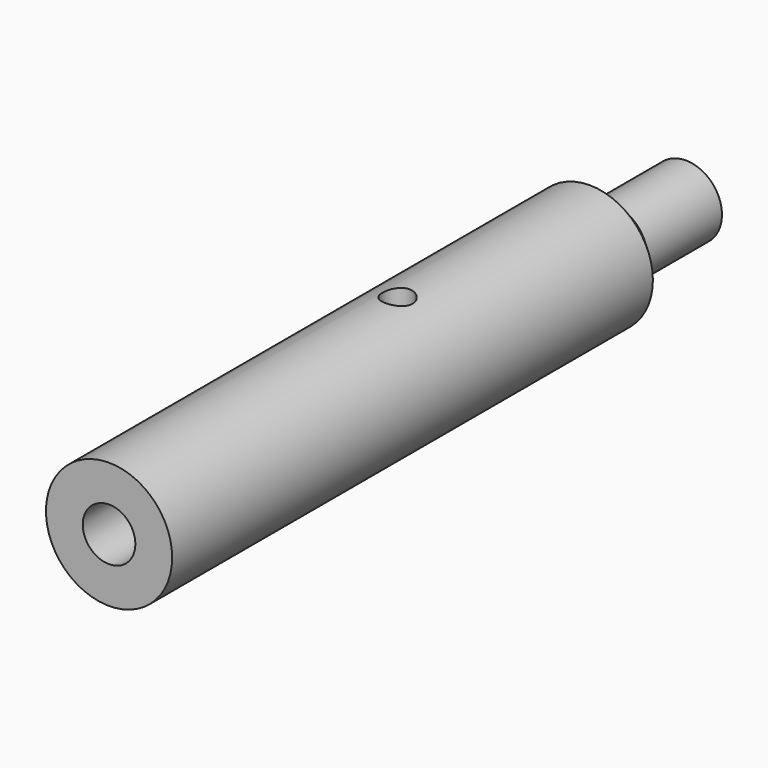
from build123d import *

# Parameters (mm, degrees)
F0_R      = 53.34
F0_R_2    = 22.225
F1_DEPTH  = 304.8
F4_R      = 53.34
F4_R_2    = 30.48
F5_DEPTH  = 101.6
F10_R     = 12.7
F10_R_2   = 8.89
F10_R_3   = 3.175
F11_DEPTH = 15.24
F12_DEPTH = 27.94
F13_DEPTH = 32.3429548439
F14_R     = 12.7
F14_R_2   = 8.89
F14_R_3   = 3.175
F15_DEPTH = 15.24
F16_DEPTH = 27.94
F17_DEPTH = 32.3429548439


with BuildPart() as f1:
    # F0 (on Front) → F1 (new body, symmetric)
    with BuildSketch(Plane.XZ):
        Circle(F0_R)
        Circle(F0_R_2, mode=Mode.SUBTRACT)
    extrude(amount=F1_DEPTH, both=True)

    # F4 (on offset) → F5 (cut)
    with BuildSketch(Plane(origin=(0, 304.8, 0), x_dir=(-1, 0, 0), z_dir=(0, 1, 0))):
        Circle(F4_R)
        Circle(F4_R_2, mode=Mode.SUBTRACT)
    extrude(amount=-F5_DEPTH, mode=Mode.SUBTRACT)

    # F6 (on Right) → F7 (revolve)
    with BuildSketch(Plane.YZ):
        Polygon((203.2, 53.34), (203.2, 30.48), (226.06, 30.48), align=None)
    revolve(axis=Axis((0, 101.6, 0), (0, 1, 0)))

    # F10 (on offset) → F11 (cut)
    with BuildSketch(Plane.XY.offset(53.34)):
        Circle(F10_R)
        Circle(F10_R_2, mode=Mode.SUBTRACT)
        Circle(F10_R_2)
        Circle(F10_R_3, mode=Mode.SUBTRACT)
        Circle(F10_R_3)
    extrude(amount=-F11_DEPTH, mode=Mode.SUBTRACT)

    # F10 (on offset) → F12 (cut)
    with BuildSketch(Plane.XY.offset(53.34)):
        Circle(F10_R_2)
        Circle(F10_R_3, mode=Mode.SUBTRACT)
        Circle(F10_R_3)
    extrude(amount=-F12_DEPTH, mode=Mode.SUBTRACT)

    # F10 (on offset) → F13 (cut, up to face)
    with BuildSketch(Plane.XY.offset(53.34)):
        Circle(F10_R_3)
    extrude(amount=-F13_DEPTH, mode=Mode.SUBTRACT)

    # F14 (on offset) → F15 (cut)
    with BuildSketch(Plane.XY.offset(-53.34)):
        Circle(F14_R)
        Circle(F14_R_2, mode=Mode.SUBTRACT)
        Circle(F14_R_2)
        Circle(F14_R_3, mode=Mode.SUBTRACT)
        Circle(F14_R_3)
    extrude(amount=F15_DEPTH, mode=Mode.SUBTRACT)

    # F14 (on offset) → F16 (cut)
    with BuildSketch(Plane.XY.offset(-53.34)):
        Circle(F14_R_2)
        Circle(F14_R_3, mode=Mode.SUBTRACT)
        Circle(F14_R_3)
    extrude(amount=F16_DEPTH, mode=Mode.SUBTRACT)

    # F14 (on offset) → F17 (cut, up to face)
    with BuildSketch(Plane.XY.offset(-53.34)):
        Circle(F14_R_3)
    extrude(amount=F17_DEPTH, mode=Mode.SUBTRACT)


solid = f1.part
